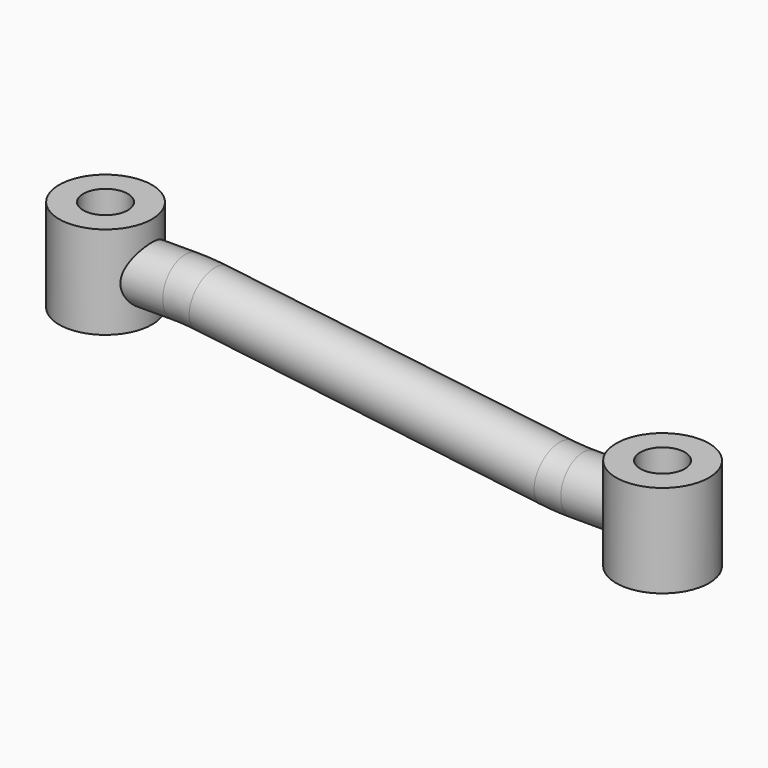
from build123d import *

# Parameters (mm, degrees)
F0_R     = 12.5
F0_R_2   = 6
F1_DEPTH = 25
F3_R     = 12.5
F3_R_2   = 6
F4_DEPTH = 12.5
F5_R     = 7.5
F7_R     = 6
F8_DEPTH = 25


with BuildPart() as f1:
    # F0 (on Top) → F1 (new body)
    with BuildSketch(Plane.XY):
        Circle(F0_R)
        Circle(F0_R_2, mode=Mode.SUBTRACT)
    extrude(amount=F1_DEPTH)



with BuildPart() as f4:
    # F3 (on Top) → F4 (new body, symmetric)
    with BuildSketch(Plane.XY):
        with Locations((150, 0)):
            Circle(F3_R)
        with Locations((150, 0)):
            Circle(F3_R_2, mode=Mode.SUBTRACT)
    extrude(amount=F4_DEPTH, both=True)


with BuildPart() as f1_1:
    add(f1.part)

    add(f4.part)  # F6 merges F4
    # F6: sweep along a path in F2
    with BuildLine(Plane.XZ) as f6_path:
        Line((0, 12), (21.412868, 12))
        ThreePointArc((21.412868, 12), (24.993606, 11.893057), (28.561581, 11.57261))
        Line((28.561581, 11.57261), (121.438419, 0.42739))
        ThreePointArc((121.438419, 0.42739), (125.006394, 0.106943), (128.587132, 0))
        Line((128.587132, 0), (150, 0))
    # F5 (on Right) → F6 (sweep)
    with BuildSketch(Plane.YZ):
        with Locations((0, 12)):
            Circle(F5_R)
    sweep(path=f6_path.line)

    # F7 (on Top) → F8 (cut, symmetric)
    with BuildSketch(Plane.XY):
        Circle(F7_R)
        with Locations((150, 0)):
            Circle(F7_R)
    extrude(amount=F8_DEPTH, both=True, mode=Mode.SUBTRACT)


solid = f1_1.part
